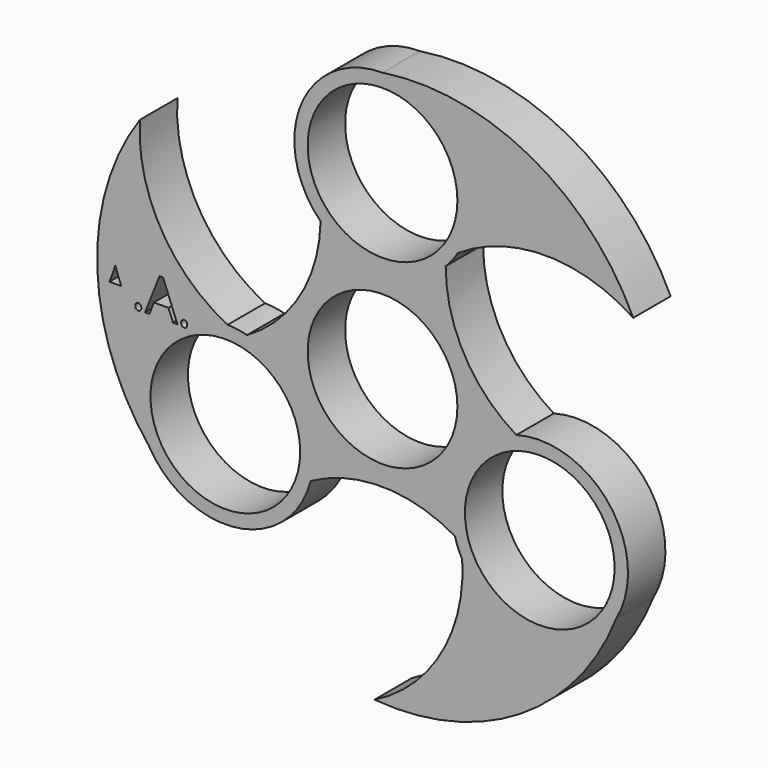
from build123d import *

# Parameters (mm, degrees)
F0_R     = 11.2
F1_DEPTH = 7


with BuildPart() as f1:
    # F0 (on Front) → F1 (new body)
    with BuildSketch(Plane.XZ):
        with BuildLine():
            ThreePointArc((20.0236580718, -0.8519036997), (12.2506865161, 7.1483964876), (9.4521480978, 17.9461773991))
            ThreePointArc((9.4521480978, 17.9461773991), (10.4178119451, 19.0540077876), (11.25434163, 20.262317732))
            ThreePointArc((11.25434163, 20.262317732), (24.3805932392, 24.2189275402), (37.5068448484, 20.262317732))
            ThreePointArc((37.5068448484, 20.262317732), (22.0873179356, 36.5329904235), (0, 40.3601285785))
            ThreePointArc((0, 40.3601285785), (-12.2112648431, 32.172614083), (-9.2740587904, 17.7669484168))
            ThreePointArc((-9.2740587904, 17.7669484168), (-12.3160362126, 7.035207493), (-20.2679195774, -0.7872883265))
            ThreePointArc((-20.2679195774, -0.7872883265), (-21.7101607605, -0.5049140975), (-23.1748527104, -0.3846131115))
            ThreePointArc((-23.1748527104, -0.3846131115), (-33.1645031218, 9.0047493344), (-36.3011043196, 22.3507215885))
            ThreePointArc((-36.3011043196, 22.3507215885), (-41.6976005233, 10.37729176), (-42.3846814515, -2.738085205))
            Line((-42.3846814515, -2.738085205), (-40.2381836642, 2.7149224629))
            Line((-40.2381836642, 2.7149224629), (-39.7043095942, 2.7149224629))
            Line((-39.7043095942, 2.7149224629), (-37.5580641721, -2.7647514362))
            Line((-37.5580641721, -2.7647514362), (-38.2149562045, -2.7647514362))
            Line((-38.2149562045, -2.7647514362), (-38.8945408707, -1.0293621216))
            Line((-38.8945408707, -1.0293621216), (-41.0813941639, -1.0293621216))
            Line((-41.0813941639, -1.0293621216), (-41.752618386, -2.7647514362))
            Line((-41.752618386, -2.7647514362), (-42.3810977929, -2.7647514362))
            ThreePointArc((-42.3810977929, -2.7647514362), (-39.846182945, -11.9753691829), (-34.952896649, -20.1800642893))
            ThreePointArc((-34.952896649, -20.1800642893), (-21.7566686805, -26.6615726079), (-10.7495992814, -16.9150447171))
            ThreePointArc((-10.7495992814, -16.9150447171), (0.0653496965, -14.1836039805), (10.8157714796, -17.1588890726))
            ThreePointArc((10.8157714796, -17.1588890726), (11.2923488154, -18.5490936901), (11.9205110804, -19.8777046204))
            ThreePointArc((11.9205110804, -19.8777046204), (8.7839098826, -33.2236768746), (-1.2057405288, -42.6130393205))
            ThreePointArc((-1.2057405288, -42.6130393205), (20.5948388151, -37.3946736454), (34.952896649, -20.1800642893))
            ThreePointArc((34.952896649, -20.1800642893), (33.9679335236, -5.511041475), (20.0236580718, -0.8519036997))
        make_face()
        with Locations((-23.5213613191, -13.5800642893)):
            Circle(F0_R, mode=Mode.SUBTRACT)
        with BuildLine():
            add(Edge.make_bspline(
                [(-36.8659388398, -2.7557938176), (-36.990748326, -2.6381504263), (-36.990748326, -2.3694218676)],
                knots=[0, 0, 0, 1, 1, 1], degree=2))
            add(Edge.make_bspline(
                [(-36.990748326, -2.3694218676), (-36.990748326, -2.1186085462), (-36.8766879822, -1.9902160126)],
                knots=[0, 0, 0, 1, 1, 1], degree=2))
            add(Edge.make_bspline(
                [(-36.8766879822, -1.9902160126), (-36.7626276384, -1.861823479), (-36.5500334897, -1.861823479)],
                knots=[0, 0, 0, 1, 1, 1], degree=2))
            add(Edge.make_bspline(
                [(-36.5500334897, -1.861823479), (-36.3338562936, -1.861823479), (-36.2126298549, -1.9902160126)],
                knots=[0, 0, 0, 1, 1, 1], degree=2))
            add(Edge.make_bspline(
                [(-36.2126298549, -1.9902160126), (-36.0914034162, -2.1186085462), (-36.0914034162, -2.3694218676)],
                knots=[0, 0, 0, 1, 1, 1], degree=2))
            add(Edge.make_bspline(
                [(-36.0914034162, -2.3694218676), (-36.0914034162, -2.611874745), (-36.2144213786, -2.7426559769)],
                knots=[0, 0, 0, 1, 1, 1], degree=2))
            add(Edge.make_bspline(
                [(-36.2144213786, -2.7426559769), (-36.3374393411, -2.8734372088), (-36.5500334897, -2.8734372088)],
                knots=[0, 0, 0, 1, 1, 1], degree=2))
            add(Edge.make_bspline(
                [(-36.5500334897, -2.8734372088), (-36.7411293537, -2.8734372088), (-36.8659388398, -2.7557938176)],
                knots=[0, 0, 0, 1, 1, 1], degree=2))
        make_face(mode=Mode.SUBTRACT)
        with BuildLine():
            add(Edge.make_bspline(
                [(-29.9948481813, -2.7557938176), (-30.1196576675, -2.6381504263), (-30.1196576675, -2.3694218676)],
                knots=[0, 0, 0, 1, 1, 1], degree=2))
            add(Edge.make_bspline(
                [(-30.1196576675, -2.3694218676), (-30.1196576675, -2.1186085462), (-30.0055973237, -1.9902160126)],
                knots=[0, 0, 0, 1, 1, 1], degree=2))
            add(Edge.make_bspline(
                [(-30.0055973237, -1.9902160126), (-29.8915369799, -1.861823479), (-29.6789428312, -1.861823479)],
                knots=[0, 0, 0, 1, 1, 1], degree=2))
            add(Edge.make_bspline(
                [(-29.6789428312, -1.861823479), (-29.4627656351, -1.861823479), (-29.3415391964, -1.9902160126)],
                knots=[0, 0, 0, 1, 1, 1], degree=2))
            add(Edge.make_bspline(
                [(-29.3415391964, -1.9902160126), (-29.2203127577, -2.1186085462), (-29.2203127577, -2.3694218676)],
                knots=[0, 0, 0, 1, 1, 1], degree=2))
            add(Edge.make_bspline(
                [(-29.2203127577, -2.3694218676), (-29.2203127577, -2.611874745), (-29.3433307201, -2.7426559769)],
                knots=[0, 0, 0, 1, 1, 1], degree=2))
            add(Edge.make_bspline(
                [(-29.3433307201, -2.7426559769), (-29.4663486825, -2.8734372088), (-29.6789428312, -2.8734372088)],
                knots=[0, 0, 0, 1, 1, 1], degree=2))
            add(Edge.make_bspline(
                [(-29.6789428312, -2.8734372088), (-29.8700386952, -2.8734372088), (-29.9948481813, -2.7557938176)],
                knots=[0, 0, 0, 1, 1, 1], degree=2))
        make_face(mode=Mode.SUBTRACT)
        with Locations((23.5213613191, -13.5800642893)):
            Circle(F0_R, mode=Mode.SUBTRACT)
        Polygon((-30.6869735136, -2.7647514362), (-31.343865546, -2.7647514362), (-32.0234502122, -1.0293621216), (-34.2103035054, -1.0293621216), (-34.8815277275, -2.7647514362), (-35.5240875701, -2.7647514362), (-33.3670930056, 2.7149224629), (-32.8332189357, 2.7149224629), align=None, mode=Mode.SUBTRACT)
        Circle(F0_R, mode=Mode.SUBTRACT)
        with Locations((0, 27.1601285785)):
            Circle(F0_R, mode=Mode.SUBTRACT)
        with BuildLine():
            Line((-40.2381836642, 2.7149224629), (-42.3846814515, -2.738085205))
            ThreePointArc((-42.3846814515, -2.738085205), (-42.3828921419, -2.7514186592), (-42.3810977929, -2.7647514362))
            Line((-42.3810977929, -2.7647514362), (-41.752618386, -2.7647514362))
            Line((-41.752618386, -2.7647514362), (-41.0813941639, -1.0293621216))
            Line((-41.0813941639, -1.0293621216), (-38.8945408707, -1.0293621216))
            Line((-38.8945408707, -1.0293621216), (-38.2149562045, -2.7647514362))
            Line((-38.2149562045, -2.7647514362), (-37.5580641721, -2.7647514362))
            Line((-37.5580641721, -2.7647514362), (-39.7043095942, 2.7149224629))
            Line((-39.7043095942, 2.7149224629), (-40.2381836642, 2.7149224629))
        make_face()
        with BuildLine():
            Line((-39.7270022281, 1.232735168), (-39.0916084804, -0.458463228))
            Line((-39.0916084804, -0.458463228), (-40.8568565237, -0.458463228))
            Line((-40.8568565237, -0.458463228), (-40.2154910303, 1.232735168))
            add(Edge.make_bspline(
                [(-39.9802042478, 2.0198112577), (-40.0626143391, 1.6615065128), (-40.2154910303, 1.232735168)],
                knots=[0, 0, 0, 1, 1, 1], degree=2))
            add(Edge.make_bspline(
                [(-39.7270022281, 1.232735168), (-39.8500201905, 1.5540150893), (-39.9802042478, 2.0198112577)],
                knots=[0, 0, 0, 1, 1, 1], degree=2))
        make_face(mode=Mode.SUBTRACT)
        with BuildLine():
            ThreePointArc((-42.3810977929, -2.7647514362), (-42.3828921419, -2.7514186592), (-42.3846814515, -2.738085205))
            Line((-42.3846814515, -2.738085205), (-42.3951782286, -2.7647514362))
            Line((-42.3951782286, -2.7647514362), (-42.3810977929, -2.7647514362))
        make_face()
    extrude(amount=F1_DEPTH)


solid = f1.part
